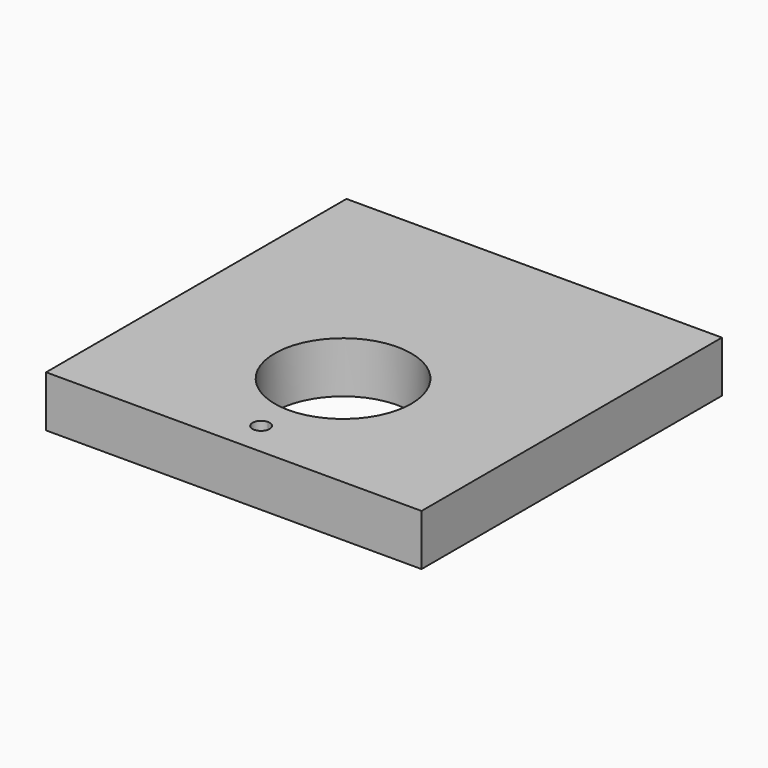
from build123d import *

# Parameters (mm, degrees)
F1_DEPTH = 19.05


with BuildPart() as f1:
    # F0 (on Top) → F1 (new body)
    with BuildSketch(Plane.XY):
        Polygon((69.85, 69.85), (-69.85, 69.85), (-69.85, -69.85), (0, -69.85), (69.85, -69.85), align=None)
        with BuildLine():
            ThreePointArc((3.175, -57.15), (2.245064, -59.395064), (0, -60.325))
            ThreePointArc((0, -60.325), (-3.175, -57.15), (0, -53.975))
            ThreePointArc((0, -53.975), (2.245064, -54.904936), (3.175, -57.15))
        make_face(mode=Mode.SUBTRACT)
        with BuildLine():
            ThreePointArc((25.4, -19.05), (17.960512, -37.010512), (0, -44.45))
            ThreePointArc((0, -44.45), (-17.960512, -1.089488), (25.4, -19.05))
        make_face(mode=Mode.SUBTRACT)
    extrude(amount=F1_DEPTH)


solid = f1.part
